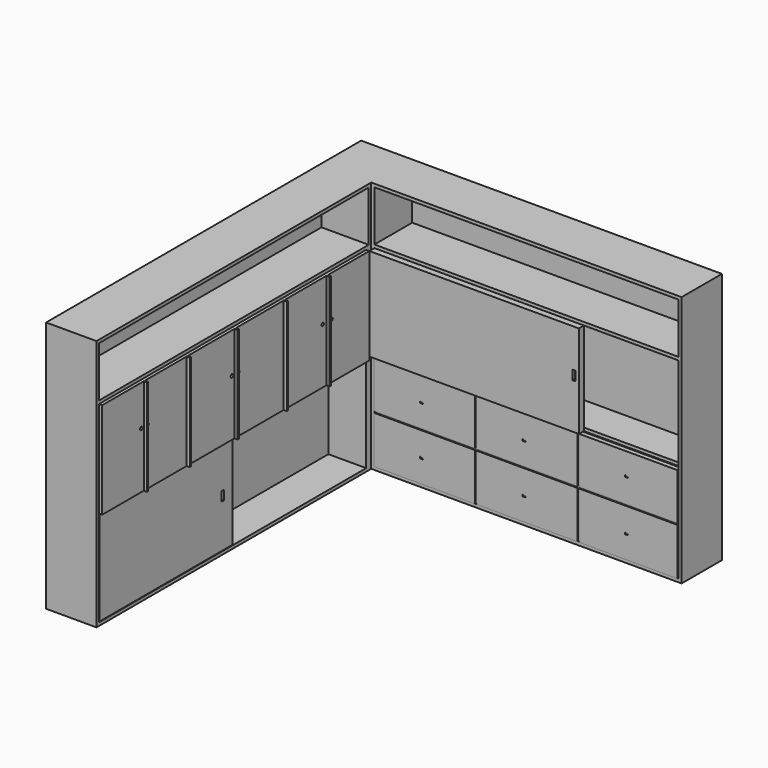
from build123d import *

# Parameters (mm, degrees)
F1_DEPTH       = 2032
F3_W           = 2717.8
F3_H           = 406.4
F4_DEPTH       = 381
F5_W           = 2692.4
F5_H           = 1549.4
F6_DEPTH       = 330.2
F8_W           = 2451.1
F8_H           = 406.4
F9_DEPTH       = 406.4
F11_W          = 2692.4
F11_H          = 25.4
F12_DEPTH      = 254
F14_W          = 1342.39
F14_H          = 765.81
F15_DEPTH      = 38.1
F17_W          = 2451.1
F17_H          = 1549.4
F18_DEPTH      = 355.6
F20_W          = 2451.1
F20_H          = 25.4
F21_DEPTH      = 292.1
F23_W          = 2446.02
F23_H          = 769.62
F24_DEPTH      = 19.05
F24_DEPTH_BACK = 19.05
F25_W          = 12.7
F25_H          = 380.746
F25_H_2        = 375.666
F25_H_3        = 375.92
F26_DEPTH      = 25.4
F27_W          = 25.4
F27_H          = 12.7
F28_DEPTH      = 25.4
F29_W          = 1688.846
F29_H          = 748.792
F30_DEPTH      = 25.4
F30_DEPTH_BACK = 25.4
F31_W          = 25.4
F31_H          = 76.2
F32_DEPTH      = 25.4
F33_W          = 25.4
F33_H          = 76.2
F34_DEPTH      = 25.4
F35_W          = 2691.892
F35_H          = 776.986
F36_DEPTH      = 25.4
F36_DEPTH_BACK = 25.4
F37_W          = 12.7
F37_H          = 776.986
F38_DEPTH      = 25.4
F39_R          = 12.7
F39_R_2        = 13.0678155546
F40_DEPTH      = 25.4


with BuildPart() as f1:
    # F0 (on Top) → F1 (new body)
    with BuildSketch(Plane.XY):
        Polygon((0, 3175), (0, 0), (406.4, 0), (406.4, 2768.6), (2908.3, 2768.6), (2908.3, 3175), align=None)
    extrude(amount=F1_DEPTH)

    # F3 (on face) → F4 (cut)
    with BuildSketch(Plane.YZ.offset(406.4)):
        with Locations((1384.3, 1803.4)):
            Rectangle(F3_W, F3_H)
    extrude(amount=-F4_DEPTH, mode=Mode.SUBTRACT)

    # F5 (on offset) → F6 (cut)
    with BuildSketch(Plane.YZ.offset(431.8)):
        with Locations((1371.6, 800.1)):
            Rectangle(F5_W, F5_H)
    extrude(amount=-F6_DEPTH, mode=Mode.SUBTRACT)

    # F8 (on offset) → F9 (cut)
    with BuildSketch(Plane.XZ.offset(-2743.2)):
        with Locations((1657.35, 1803.4)):
            Rectangle(F8_W, F8_H)
    extrude(amount=-F9_DEPTH, mode=Mode.SUBTRACT)

    # F17 (on face) → F18 (cut)
    with BuildSketch(Plane.XZ.offset(-2768.6)):
        with Locations((1657.35, 800.1)):
            Rectangle(F17_W, F17_H)
    extrude(amount=-F18_DEPTH, mode=Mode.SUBTRACT)

    # F20 (on offset) → F21 (join)
    with BuildSketch(Plane.XZ.offset(-3098.8)):
        with Locations((1657.35, 812.8)):
            Rectangle(F20_W, F20_H)
    extrude(amount=F21_DEPTH)


with BuildPart() as f12:
    # F11 (on offset) → F12 (new body)
    with BuildSketch(Plane.YZ.offset(127)):
        with Locations((1371.6, 812.8)):
            Rectangle(F11_W, F11_H)
    extrude(amount=F12_DEPTH)

    # F35 (on offset) → F36 (join, two sides)
    with BuildSketch(Plane.YZ.offset(406.4)) as f36_sk:
        with Locations((1371.6, 1186.053)):
            Rectangle(F35_W, F35_H)
    extrude(amount=F36_DEPTH)
    extrude(f36_sk.sketch, amount=-F36_DEPTH_BACK)

    # F37 (on face) → F38 (join)
    with BuildSketch(Plane.YZ.offset(431.8)):
        with Locations((450.85, 1186.053)):
            Rectangle(F37_W, F37_H)
        with Locations((882.65, 1186.053)):
            Rectangle(F37_W, F37_H)
        with Locations((2292.35, 1186.053)):
            Rectangle(F37_W, F37_H)
        with Locations((1860.55, 1186.053)):
            Rectangle(F37_W, F37_H)
        with Locations((1365.25, 1186.053)):
            Rectangle(F37_W, F37_H)
    extrude(amount=F38_DEPTH)

    # F39 (on face) → F40 (cut)
    with BuildSketch(Plane.YZ.offset(431.8)):
        with Locations((419.1, 1249.6890985292)):
            Circle(F39_R)
        with Locations((482.6, 1251.0738372803)):
            Circle(F39_R)
        with Locations((1333.5, 1251.0738372803)):
            Circle(F39_R_2)
        with Locations((1397, 1251.0738372803)):
            Circle(F39_R)
        with Locations((2247.9, 1245.0460195541)):
            Circle(F39_R)
        with Locations((2336.8, 1245.0460195541)):
            Circle(F39_R)
    extrude(amount=-F40_DEPTH, mode=Mode.SUBTRACT)


with BuildPart() as f15:
    # F14 (on offset) → F15 (new body)
    with BuildSketch(Plane.YZ.offset(406.4)):
        with Locations((700.405, 412.115)):
            Rectangle(F14_W, F14_H)
    extrude(amount=-F15_DEPTH)

    # F33 (on face) → F34 (cut)
    with BuildSketch(Plane.YZ.offset(406.4)):
        with Locations((1270.4063653946, 417.4502300538)):
            Rectangle(F33_W, F33_H)
    extrude(amount=-F34_DEPTH, mode=Mode.SUBTRACT)


with BuildPart() as f24:
    # F23 (on offset) → F24 (new body, two sides)
    with BuildSketch(Plane.XZ.offset(-2781.3)) as f24_sk:
        with Locations((1657.35, 412.75)):
            Rectangle(F23_W, F23_H)
    extrude(amount=F24_DEPTH)
    extrude(f24_sk.sketch, amount=-F24_DEPTH_BACK)

    # F25 (on offset) → F26 (cut)
    with BuildSketch(Plane.XZ.offset(-2743.2)):
        Polygon((436.88, 421.64), (436.88, 408.94), (1247.902, 408.94), (1260.602, 408.94), (2074.164, 408.94), (2086.864, 408.94), (2877.82, 408.94), (2877.82, 421.64), (2086.864, 421.64), (2074.164, 421.64), (1260.602, 421.64), (1247.902, 421.64), align=None)
        with Locations((1254.252, 218.567)):
            Rectangle(F25_W, F25_H)
        with Locations((1254.252, 609.473)):
            Rectangle(F25_W, F25_H_2)
        with Locations((2080.514, 220.98)):
            Rectangle(F25_W, F25_H_3)
        with Locations((2080.514, 609.473)):
            Rectangle(F25_W, F25_H_2)
    extrude(amount=-F26_DEPTH, mode=Mode.SUBTRACT)

    # F27 (on offset) → F28 (cut)
    with BuildSketch(Plane.XZ.offset(-2743.2)):
        with Locations((815.34, 605.79)):
            Rectangle(F27_W, F27_H)
        with Locations((815.34, 212.09)):
            Rectangle(F27_W, F27_H)
        with Locations((1641.602, 605.79)):
            Rectangle(F27_W, F27_H)
        with Locations((1641.602, 212.09)):
            Rectangle(F27_W, F27_H)
        with Locations((2467.864, 618.49)):
            Rectangle(F27_W, F27_H)
        with Locations((2467.864, 212.09)):
            Rectangle(F27_W, F27_H)
    extrude(amount=-F28_DEPTH, mode=Mode.SUBTRACT)


with BuildPart() as f30:
    # F29 (on offset) → F30 (new body, two sides)
    with BuildSketch(Plane.XZ.offset(-2743.2)) as f30_sk:
        with Locations((1276.477, 1200.15)):
            Rectangle(F29_W, F29_H)
    extrude(amount=F30_DEPTH)
    extrude(f30_sk.sketch, amount=-F30_DEPTH_BACK)

    # F31 (on face) → F32 (cut)
    with BuildSketch(Plane.XZ.offset(-2717.8)):
        with Locations((2082.8, 1228.3547520638)):
            Rectangle(F31_W, F31_H)
    extrude(amount=-F32_DEPTH, mode=Mode.SUBTRACT)


solid = Compound([f1.part, f12.part, f15.part, f24.part, f30.part])
